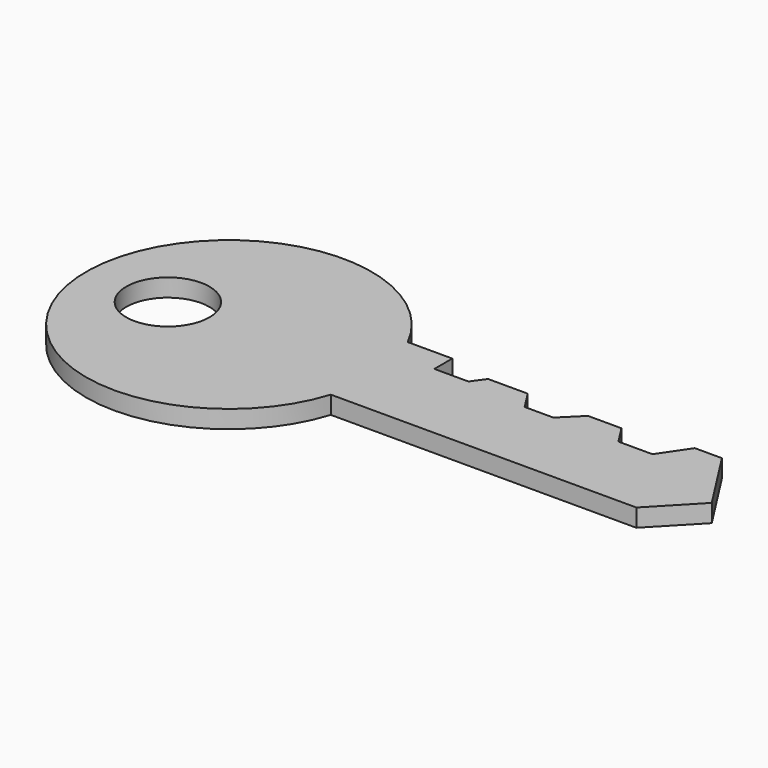
from build123d import *

# Parameters (mm, degrees)
F0_R     = 14.796322
F1_DEPTH = 6.35


with BuildPart() as f1:
    # F0 (on Top) → F1 (new body)
    with BuildSketch(Plane.XY):
        with BuildLine():
            Line((-27.206885, 22.783245), (-23.203398, 22.783245))
            ThreePointArc((-23.203398, 22.783245), (-119.245242, -4.061273), (-20.152583, -15.255412))
            Line((-20.152583, -15.255412), (-27.206885, -15.255412))
            Line((-27.206885, -15.255412), (-27.206885, 22.783245))
        make_face()
        with Locations((-90.329006, 0)):
            Circle(F0_R, mode=Mode.SUBTRACT)
        with BuildLine():
            ThreePointArc((-23.203398, 22.783245), (-19.175133, 11.70671), (-17.807844, 0))
            ThreePointArc((-17.807844, 0), (-18.397451, -7.717276), (-20.152583, -15.255412))
            Line((-20.152583, -15.255412), (88.56295, -15.255412))
            Line((88.56295, -15.255412), (103.171997, 0))
            Line((103.171997, 0), (88.56295, 22.783245))
            Line((88.56295, 22.783245), (78.915462, 22.783245))
            Line((78.915462, 22.783245), (72.024398, 12.584476))
            Line((72.024398, 12.584476), (59.896126, 12.584476))
            Line((59.896126, 12.584476), (55.534395, 19.386727))
            Line((55.534395, 19.386727), (43.63323, 19.386727))
            Line((43.63323, 19.386727), (36.742169, 12.584476))
            Line((36.742169, 12.584476), (26.543396, 12.584476))
            Line((26.543396, 12.584476), (22.181664, 19.386727))
            Line((22.181664, 19.386727), (8.075351, 19.386727))
            Line((8.075351, 19.386727), (4.758361, 14.796322))
            Line((4.758361, 14.796322), (-7.360628, 14.796322))
            Line((-7.360628, 14.796322), (-7.360628, 22.783245))
            Line((-7.360628, 22.783245), (-23.203398, 22.783245))
        make_face()
        with BuildLine():
            ThreePointArc((-20.152583, -15.255412), (-18.397451, -7.717276), (-17.807844, 0))
            ThreePointArc((-17.807844, 0), (-19.175133, 11.70671), (-23.203398, 22.783245))
            Line((-23.203398, 22.783245), (-27.206885, 22.783245))
            Line((-27.206885, 22.783245), (-27.206885, -15.255412))
            Line((-27.206885, -15.255412), (-20.152583, -15.255412))
        make_face()
    extrude(amount=F1_DEPTH)


solid = f1.part
